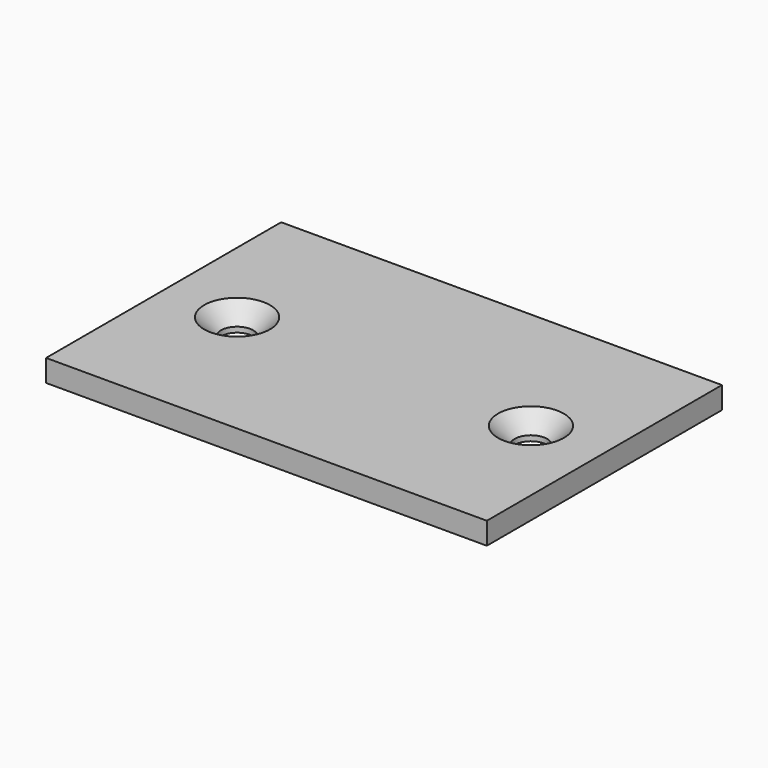
from build123d import *

# Parameters (mm, degrees)
F0_W           = 60
F0_H           = 40
F1_DEPTH       = 3
F3_D           = 4.4
F3_CSINK_D     = 8.96
F3_CSINK_ANGLE = 90


with BuildPart() as f1:
    # F0 (on Top) → F1 (new body)
    with BuildSketch(Plane.XY):
        Rectangle(F0_W, F0_H)
    extrude(amount=F1_DEPTH)

    # F3 (through all)
    with Locations(Plane.XY.offset(3)):
        with Locations((-20, 0), (20, 0)):
            CounterSinkHole(F3_D / 2, F3_CSINK_D / 2, counter_sink_angle=F3_CSINK_ANGLE)


solid = f1.part
